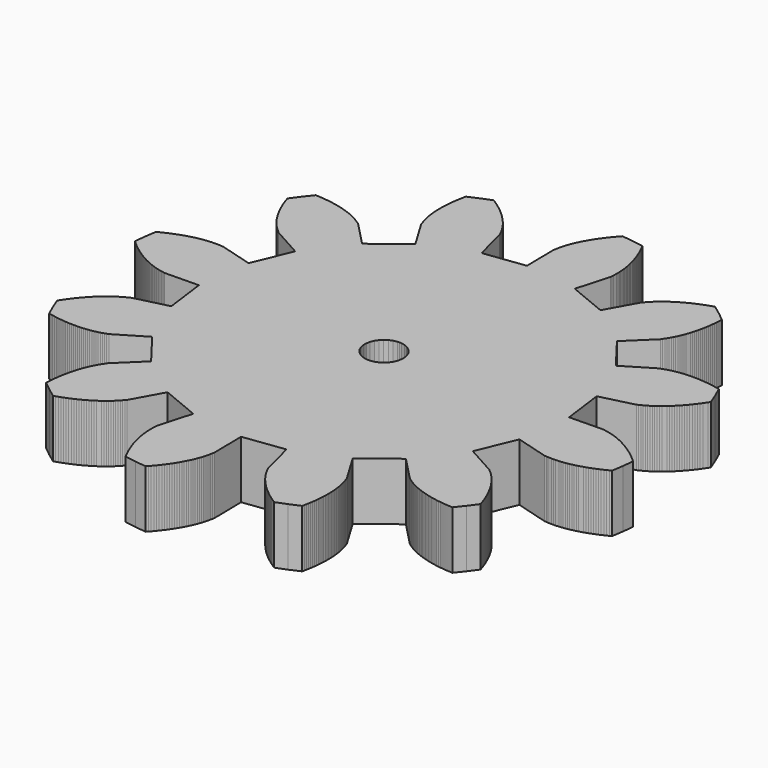
from build123d import *

# Parameters (mm, degrees)
F1_DEPTH = 25


with BuildPart() as f1:
    # F0 (on Top) → F1 (new body)
    with BuildSketch(Plane.XY):
        Polygon((-580.7915, 906), (-581.5505, 906.194), (-596.3495, 905.93), (-598.6955, 923.78), (-584.3365, 927.379), (-583.6495, 927.767), (-582.9615, 928.084), (-582.2555, 928.437), (-581.5675, 928.807), (-580.8975, 929.196), (-580.2275, 929.601), (-579.5565, 930.042), (-578.8865, 930.483), (-578.2335, 930.959), (-577.5815, 931.453), (-576.9285, 931.965), (-576.2935, 932.494), (-575.6585, 933.023), (-575.0415, 933.588), (-574.4235, 934.17), (-573.8065, 934.752), (-573.1895, 935.369), (-572.5895, 935.987), (-572.0075, 936.639), (-571.4075, 937.292), (-570.8255, 937.962), (-570.2615, 938.65), (-569.6965, 939.338), (-569.1325, 940.061), (-568.5675, 940.784), (-568.0385, 941.543), (-567.4915, 942.301), (-566.9625, 943.077), (-566.4335, 943.853), (-565.9215, 944.665), (-567.7215, 949.251), (-569.6965, 953.749), (-570.6315, 953.961), (-571.5485, 954.137), (-572.4655, 954.313), (-573.3835, 954.472), (-574.3005, 954.613), (-575.2005, 954.737), (-576.1175, 954.842), (-576.9995, 954.948), (-577.8985, 955.019), (-578.7805, 955.089), (-579.6625, 955.125), (-580.5265, 955.16), (-581.4085, 955.178), (-582.2555, 955.178), (-583.1195, 955.16), (-583.9665, 955.125), (-584.7955, 955.089), (-585.6245, 955.019), (-586.4535, 954.948), (-587.2655, 954.842), (-588.0765, 954.737), (-588.8705, 954.596), (-589.6635, 954.454), (-590.4405, 954.296), (-591.2165, 954.102), (-591.9745, 953.89), (-592.7155, 953.678), (-593.4565, 953.431), (-594.1795, 953.167), (-594.9205, 952.955), (-607.6205, 945.335), (-618.5745, 959.623), (-607.9375, 969.906), (-607.5325, 970.576), (-607.0915, 971.211), (-606.6675, 971.864), (-606.2625, 972.517), (-605.8745, 973.205), (-605.4855, 973.892), (-605.1335, 974.616), (-604.7805, 975.339), (-604.4455, 976.062), (-604.1275, 976.821), (-603.8275, 977.579), (-603.5285, 978.355), (-603.2635, 979.149), (-602.9985, 979.943), (-602.7515, 980.754), (-602.5055, 981.565), (-602.2935, 982.394), (-602.0815, 983.241), (-601.8875, 984.088), (-601.7115, 984.952), (-601.5345, 985.834), (-601.3765, 986.698), (-601.2355, 987.598), (-601.1115, 988.497), (-601.0055, 989.415), (-600.8995, 990.332), (-600.8115, 991.249), (-600.7415, 992.184), (-600.6885, 993.137), (-600.6355, 994.071), (-604.4805, 997.158), (-608.4495, 1000.069), (-609.3485, 999.786), (-610.2485, 999.487), (-611.1305, 999.169), (-612.0125, 998.852), (-612.8595, 998.516), (-613.7235, 998.164), (-614.5525, 997.811), (-615.3815, 997.44), (-616.1925, 997.07), (-616.9865, 996.682), (-617.7625, 996.276), (-618.5385, 995.871), (-619.2975, 995.447), (-620.0385, 995.024), (-620.7785, 994.583), (-621.5025, 994.124), (-622.1905, 993.666), (-622.8775, 993.207), (-623.5655, 992.713), (-624.2185, 992.237), (-624.8535, 991.725), (-625.4885, 991.214), (-626.0885, 990.702), (-626.6875, 990.156), (-627.2525, 989.609), (-627.8165, 989.062), (-628.3455, 988.497), (-628.8575, 987.915), (-629.3515, 987.333), (-629.8985, 986.769), (-637.0945, 973.822), (-653.7285, 980.701), (-649.6535, 994.936), (-649.6365, 995.729), (-649.5655, 996.488), (-649.5305, 997.264), (-649.4955, 998.04), (-649.4955, 998.834), (-649.5125, 999.628), (-649.5655, 1000.421), (-649.6185, 1001.215), (-649.7065, 1002.027), (-649.7945, 1002.82), (-649.9185, 1003.632), (-650.0595, 1004.461), (-650.2185, 1005.272), (-650.3765, 1006.101), (-650.5705, 1006.93), (-650.7825, 1007.759), (-650.9945, 1008.588), (-651.2415, 1009.417), (-651.5055, 1010.246), (-651.7705, 1011.093), (-652.0525, 1011.922), (-652.3705, 1012.769), (-652.6875, 1013.615), (-653.0225, 1014.444), (-653.3935, 1015.291), (-653.7635, 1016.138), (-654.1515, 1016.984), (-654.5575, 1017.831), (-654.9805, 1018.678), (-655.4045, 1019.524), (-660.2725, 1020.265), (-665.1585, 1020.812), (-665.8105, 1020.106), (-666.4285, 1019.401), (-667.0455, 1018.678), (-667.6455, 1017.972), (-668.2095, 1017.249), (-668.7745, 1016.526), (-669.3215, 1015.802), (-669.8505, 1015.062), (-670.3615, 1014.338), (-670.8735, 1013.598), (-671.3495, 1012.857), (-671.8085, 1012.116), (-672.2665, 1011.375), (-672.6905, 1010.634), (-673.0955, 1009.893), (-673.5015, 1009.135), (-673.8715, 1008.394), (-674.2425, 1007.636), (-674.5775, 1006.895), (-674.9125, 1006.136), (-675.2125, 1005.378), (-675.4945, 1004.619), (-675.7595, 1003.861), (-676.0065, 1003.102), (-676.2355, 1002.344), (-676.4295, 1001.586), (-676.6055, 1000.827), (-676.7645, 1000.069), (-676.9055, 999.31), (-677.0995, 998.552), (-676.8525, 983.753), (-694.7035, 981.407), (-698.2845, 995.765), (-698.6725, 996.453), (-698.9895, 997.141), (-699.3425, 997.846), (-699.7125, 998.534), (-700.1005, 999.204), (-700.5065, 999.875), (-700.9475, 1000.545), (-701.4065, 1001.215), (-701.8645, 1001.868), (-702.3585, 1002.52), (-702.8705, 1003.155), (-703.3995, 1003.808), (-703.9465, 1004.425), (-704.4935, 1005.06), (-705.0755, 1005.678), (-705.6745, 1006.295), (-706.2745, 1006.895), (-706.9095, 1007.512), (-707.5445, 1008.094), (-708.1975, 1008.694), (-708.8675, 1009.276), (-709.5555, 1009.841), (-710.2605, 1010.405), (-710.9665, 1010.969), (-711.7075, 1011.516), (-712.4485, 1012.063), (-713.2065, 1012.61), (-713.9825, 1013.139), (-714.7585, 1013.651), (-715.5705, 1014.18), (-720.1565, 1012.381), (-724.6545, 1010.405), (-724.8655, 1009.47), (-725.0425, 1008.553), (-725.2185, 1007.636), (-725.3775, 1006.718), (-725.5185, 1005.801), (-725.6425, 1004.884), (-725.7475, 1003.984), (-725.8535, 1003.085), (-725.9245, 1002.203), (-725.9945, 1001.321), (-726.0305, 1000.439), (-726.0655, 999.557), (-726.0835, 998.693), (-726.0835, 997.828), (-726.0655, 996.982), (-726.0475, 996.135), (-725.9945, 995.306), (-725.9245, 994.459), (-725.8535, 993.648), (-725.7475, 992.837), (-725.6425, 992.025), (-725.5185, 991.232), (-725.3595, 990.438), (-725.2015, 989.662), (-725.0075, 988.886), (-724.8135, 988.127), (-724.5835, 987.386), (-724.3365, 986.645), (-724.0725, 985.922), (-723.8605, 985.164), (-716.2405, 972.481), (-730.5285, 961.51), (-740.8115, 972.164), (-741.4815, 972.57), (-742.1165, 973.011), (-742.7695, 973.434), (-743.4395, 973.84), (-744.1105, 974.228), (-744.7975, 974.616), (-745.5215, 974.968), (-746.2445, 975.321), (-746.9675, 975.656), (-747.7255, 975.974), (-748.4845, 976.274), (-749.2605, 976.556), (-750.0545, 976.838), (-750.8485, 977.103), (-751.6595, 977.35), (-752.4705, 977.597), (-753.2995, 977.808), (-754.1465, 978.02), (-754.9935, 978.214), (-755.8575, 978.39), (-756.7395, 978.567), (-757.6215, 978.726), (-758.5035, 978.867), (-759.4025, 978.99), (-760.3205, 979.096), (-761.2375, 979.202), (-762.1545, 979.29), (-763.0895, 979.361), (-764.0415, 979.413), (-764.9945, 979.466), (-768.0635, 975.621), (-770.9745, 971.652), (-770.6915, 970.753), (-770.3915, 969.853), (-770.0745, 968.971), (-769.7565, 968.089), (-769.4215, 967.225), (-769.0695, 966.378), (-768.7165, 965.549), (-768.3455, 964.72), (-767.9755, 963.909), (-767.5875, 963.115), (-767.1815, 962.321), (-766.7755, 961.563), (-766.3525, 960.804), (-765.9295, 960.046), (-765.4885, 959.323), (-765.0475, 958.6), (-764.5885, 957.894), (-764.1125, 957.206), (-763.6365, 956.536), (-763.1425, 955.883), (-762.6305, 955.248), (-762.1195, 954.613), (-761.6075, 954.013), (-761.0605, 953.414), (-760.5315, 952.849), (-759.9675, 952.285), (-759.4025, 951.756), (-758.8205, 951.244), (-758.2385, 950.75), (-757.6745, 950.203), (-744.7275, 943.007), (-751.6245, 926.373), (-765.8415, 930.448), (-766.6345, 930.466), (-767.3935, 930.536), (-768.1695, 930.571), (-768.9455, 930.607), (-769.7395, 930.607), (-770.5335, 930.571), (-771.3265, 930.536), (-772.1205, 930.483), (-772.9315, 930.395), (-773.7435, 930.289), (-774.5545, 930.183), (-775.3665, 930.042), (-776.1775, 929.883), (-777.0065, 929.725), (-777.8355, 929.531), (-778.6645, 929.319), (-779.4935, 929.107), (-780.3225, 928.86), (-781.1515, 928.596), (-781.9985, 928.331), (-782.8275, 928.031), (-783.6745, 927.732), (-784.5205, 927.414), (-785.3675, 927.061), (-786.1965, 926.708), (-787.0435, 926.338), (-787.8895, 925.95), (-788.7365, 925.544), (-789.5835, 925.121), (-790.4295, 924.68), (-791.1705, 919.829), (-791.7175, 914.926), (-791.0115, 914.291), (-790.3065, 913.673), (-789.5835, 913.056), (-788.8775, 912.456), (-788.1545, 911.892), (-787.4315, 911.327), (-786.7075, 910.781), (-785.9845, 910.251), (-785.2435, 909.722), (-784.5035, 909.228), (-783.7795, 908.752), (-783.0395, 908.293), (-782.2985, 907.835), (-781.5395, 907.412), (-780.7985, 906.988), (-780.0585, 906.6), (-779.2995, 906.23), (-778.5415, 905.859), (-777.8005, 905.524), (-777.0415, 905.189), (-776.2835, 904.889), (-775.5245, 904.607), (-774.7665, 904.342), (-774.0075, 904.095), (-773.2495, 903.866), (-772.4905, 903.672), (-771.7325, 903.478), (-770.9745, 903.337), (-770.2155, 903.196), (-769.4575, 903.002), (-754.6585, 903.249), (-752.3125, 885.398), (-766.6705, 881.817), (-767.3585, 881.429), (-768.0635, 881.112), (-768.7515, 880.759), (-769.4395, 880.389), (-770.1095, 880.001), (-770.7805, 879.577), (-771.4505, 879.154), (-772.1205, 878.695), (-772.7735, 878.219), (-773.4255, 877.743), (-774.0785, 877.231), (-774.7135, 876.702), (-775.3485, 876.155), (-775.9655, 875.609), (-776.5835, 875.027), (-777.2005, 874.427), (-777.8175, 873.827), (-778.4175, 873.192), (-778.9995, 872.557), (-779.5995, 871.904), (-780.1815, 871.234), (-780.7455, 870.546), (-781.3105, 869.841), (-781.8745, 869.135), (-782.4395, 868.394), (-782.9685, 867.653), (-783.5155, 866.895), (-784.0445, 866.119), (-784.5735, 865.325), (-785.0855, 864.531), (-783.2855, 859.945), (-781.3105, 855.447), (-780.3935, 855.236), (-779.4585, 855.059), (-778.5415, 854.883), (-777.6235, 854.724), (-776.7065, 854.583), (-775.8075, 854.46), (-774.8895, 854.354), (-774.0075, 854.248), (-773.1085, 854.177), (-772.2265, 854.107), (-771.3445, 854.054), (-770.4805, 854.036), (-769.5985, 854.019), (-768.7515, 854.019), (-767.8875, 854.036), (-767.0405, 854.054), (-766.2115, 854.107), (-765.3825, 854.177), (-764.5535, 854.248), (-763.7425, 854.354), (-762.9305, 854.46), (-762.1365, 854.583), (-761.3435, 854.742), (-760.5675, 854.901), (-759.7905, 855.095), (-759.0325, 855.289), (-758.2915, 855.518), (-757.5505, 855.765), (-756.8275, 856.029), (-756.0865, 856.241), (-743.3865, 863.861), (-732.4335, 849.574), (-743.0695, 839.29), (-743.4755, 838.602), (-743.9155, 837.985), (-744.3395, 837.332), (-744.7455, 836.662), (-745.1335, 835.992), (-745.5215, 835.286), (-745.8735, 834.581), (-746.2265, 833.857), (-746.5615, 833.117), (-746.8795, 832.376), (-747.1795, 831.617), (-747.4795, 830.841), (-747.7435, 830.047), (-748.0085, 829.254), (-748.2555, 828.442), (-748.5025, 827.631), (-748.7135, 826.784), (-748.9255, 825.955), (-749.1195, 825.091), (-749.2955, 824.244), (-749.4725, 823.362), (-749.6305, 822.48), (-749.7725, 821.598), (-749.8955, 820.699), (-750.0015, 819.782), (-750.1075, 818.864), (-750.1955, 817.947), (-750.2655, 817.012), (-750.3185, 816.06), (-750.3715, 815.107), (-746.5265, 812.038), (-742.5575, 809.128), (-741.6585, 809.41), (-740.7585, 809.71), (-739.8765, 810.027), (-738.9945, 810.345), (-738.1485, 810.68), (-737.3015, 811.033), (-736.4545, 811.385), (-735.6255, 811.756), (-734.8145, 812.126), (-734.0205, 812.514), (-733.2445, 812.902), (-732.4685, 813.326), (-731.7095, 813.731), (-730.9695, 814.172), (-730.2285, 814.613), (-729.5055, 815.054), (-728.8175, 815.513), (-728.1295, 815.989), (-727.4415, 816.465), (-726.7885, 816.959), (-726.1535, 817.471), (-725.5185, 817.982), (-724.9185, 818.494), (-724.3195, 819.023), (-723.7545, 819.57), (-723.1905, 820.134), (-722.6615, 820.699), (-722.1495, 821.281), (-721.6555, 821.863), (-721.1085, 822.427), (-713.9295, 835.374), (-697.2785, 828.477), (-701.3535, 814.243), (-701.3705, 813.467), (-701.4415, 812.691), (-701.4765, 811.932), (-701.5125, 811.138), (-701.5125, 810.362), (-701.4945, 809.569), (-701.4415, 808.775), (-701.3885, 807.981), (-701.3005, 807.17), (-701.2125, 806.358), (-701.0885, 805.547), (-700.9475, 804.736), (-700.7885, 803.924), (-700.6305, 803.095), (-700.4365, 802.266), (-700.2245, 801.437), (-700.0125, 800.608), (-699.7655, 799.779), (-699.5185, 798.932), (-699.2365, 798.103), (-698.9545, 797.257), (-698.6365, 796.428), (-698.3195, 795.581), (-697.9845, 794.734), (-697.6135, 793.888), (-697.2435, 793.059), (-696.8555, 792.212), (-696.4495, 791.365), (-696.0265, 790.519), (-695.6035, 789.672), (-690.7345, 788.931), (-685.8485, 788.384), (-685.1965, 789.09), (-684.5785, 789.795), (-683.9615, 790.501), (-683.3615, 791.224), (-682.7975, 791.947), (-682.2325, 792.671), (-681.6855, 793.394), (-681.1565, 794.117), (-680.6455, 794.858), (-680.1335, 795.581), (-679.6575, 796.322), (-679.1985, 797.063), (-678.7405, 797.803), (-678.3165, 798.562), (-677.9115, 799.303), (-677.5055, 800.044), (-677.1355, 800.802), (-676.7645, 801.543), (-676.4295, 802.301), (-676.0945, 803.06), (-675.7945, 803.818), (-675.5125, 804.577), (-675.2475, 805.335), (-675.0005, 806.076), (-674.7715, 806.835), (-674.5775, 807.593), (-674.4015, 808.352), (-674.2425, 809.11), (-674.1015, 809.868), (-673.9075, 810.645), (-674.1545, 825.444), (-656.3035, 827.79), (-652.7225, 813.432), (-652.3345, 812.744), (-652.0175, 812.038), (-651.6645, 811.35), (-651.2945, 810.662), (-650.9065, 809.992), (-650.5005, 809.304), (-650.0595, 808.651), (-649.6005, 807.981), (-649.1425, 807.328), (-648.6485, 806.676), (-648.1365, 806.023), (-647.6075, 805.388), (-647.0605, 804.753), (-646.5145, 804.136), (-645.9315, 803.518), (-645.3325, 802.901), (-644.7325, 802.284), (-644.1155, 801.684), (-643.4625, 801.084), (-642.8095, 800.502), (-642.1395, 799.92), (-641.4515, 799.356), (-640.7465, 798.774), (-640.0405, 798.227), (-639.2995, 797.662), (-638.5585, 797.116), (-637.8005, 796.586), (-637.0245, 796.057), (-636.2485, 795.528), (-635.4365, 795.017), (-630.8505, 796.798), (-626.3525, 798.791), (-626.1415, 799.708), (-625.9645, 800.643), (-625.7885, 801.561), (-625.6295, 802.478), (-625.4885, 803.395), (-625.3655, 804.295), (-625.2595, 805.194), (-625.1535, 806.094), (-625.0825, 806.993), (-625.0125, 807.875), (-624.9765, 808.757), (-624.9415, 809.622), (-624.9245, 810.486), (-624.9245, 811.35), (-624.9415, 812.214), (-624.9595, 813.061), (-625.0125, 813.89), (-625.0825, 814.719), (-625.1535, 815.548), (-625.2595, 816.36), (-625.3655, 817.171), (-625.5065, 817.965), (-625.6475, 818.758), (-625.8055, 819.535), (-626.0005, 820.311), (-626.1945, 821.069), (-626.4235, 821.81), (-626.6705, 822.551), (-626.9345, 823.274), (-627.1465, 824.015), (-634.7665, 836.715), (-620.4795, 847.669), (-610.1955, 837.032), (-609.5255, 836.627), (-608.8905, 836.186), (-608.2375, 835.762), (-607.5675, 835.357), (-606.8975, 834.951), (-606.2095, 834.581), (-605.4855, 834.228), (-604.7625, 833.875), (-604.0395, 833.54), (-603.2815, 833.222), (-602.5225, 832.922), (-601.7465, 832.623), (-600.9525, 832.358), (-600.1595, 832.093), (-599.3475, 831.847), (-598.5365, 831.6), (-597.7075, 831.388), (-596.8605, 831.176), (-596.0135, 830.982), (-595.1495, 830.788), (-594.2675, 830.629), (-593.3855, 830.471), (-592.5035, 830.33), (-591.6045, 830.206), (-590.6865, 830.1), (-589.7695, 829.994), (-588.8525, 829.906), (-587.9175, 829.836), (-586.9655, 829.783), (-586.0125, 829.73), (-582.9435, 833.575), (-580.0335, 837.544), (-580.3155, 838.443), (-580.6155, 839.343), (-580.9325, 840.225), (-581.2505, 841.089), (-581.5855, 841.954), (-581.9385, 842.8), (-582.2905, 843.647), (-582.6615, 844.458), (-583.0315, 845.27), (-583.4195, 846.081), (-583.8255, 846.857), (-584.2315, 847.633), (-584.6545, 848.392), (-585.0775, 849.133), (-585.5185, 849.873), (-585.9595, 850.579), (-586.4355, 851.285), (-586.8945, 851.972), (-587.3705, 852.643), (-587.8645, 853.313), (-588.3765, 853.948), (-588.8875, 854.583), (-589.3995, 855.183), (-589.9465, 855.782), (-590.4755, 856.347), (-591.0395, 856.911), (-591.6045, 857.441), (-592.1865, 857.952), (-592.7685, 858.446), (-593.3325, 858.993), (-606.2795, 866.172), (-599.3825, 882.805), (-585.1655, 878.731), (-584.3725, 878.731), (-583.6135, 878.66), (-582.8375, 878.625), (-582.0615, 878.59), (-581.2675, 878.59), (-580.4745, 878.607), (-579.6805, 878.66), (-578.8865, 878.713), (-578.0755, 878.801), (-577.2635, 878.889), (-576.4525, 879.013), (-575.6405, 879.154), (-574.8295, 879.295), (-574.0005, 879.472), (-573.1715, 879.666), (-572.3425, 879.877), (-571.5135, 880.089), (-570.6845, 880.336), (-569.8555, 880.583), (-569.0085, 880.865), (-568.1795, 881.147), (-567.3335, 881.465), (-566.4865, 881.782), (-565.6395, 882.117), (-564.8105, 882.47), (-563.9645, 882.858), (-563.1175, 883.246), (-562.2705, 883.652), (-561.4245, 884.058), (-560.5775, 884.499), (-559.8365, 889.367), (-559.2895, 894.253), (-559.9955, 894.906), (-560.7005, 895.523), (-561.4245, 896.14), (-562.1295, 896.722), (-562.8525, 897.304), (-563.5755, 897.869), (-564.2995, 898.416), (-565.0225, 898.945), (-565.7635, 899.456), (-566.5045, 899.95), (-567.2275, 900.444), (-567.9685, 900.903), (-568.7265, 901.344), (-569.4675, 901.785), (-570.2085, 902.19), (-570.9665, 902.596), (-571.7075, 902.967), (-572.4655, 903.337), (-573.2065, 903.672), (-573.9655, 903.99), (-574.7235, 904.307), (-575.4825, 904.589), (-576.2405, 904.854), (-576.9995, 905.101), (-577.7575, 905.33), (-578.5165, 905.524), (-579.2745, 905.701), (-580.0335, 905.859), align=None)
        Polygon((-667.2045, 905.454), (-667.1695, 904.589), (-667.2045, 903.743), (-667.5395, 902.12), (-668.1565, 900.621), (-669.0565, 899.28), (-670.2035, 898.151), (-671.5255, 897.252), (-673.0255, 896.617), (-674.6485, 896.299), (-675.5125, 896.264), (-676.3595, 896.299), (-677.9815, 896.617), (-679.4815, 897.252), (-680.8215, 898.151), (-681.9505, 899.28), (-682.8505, 900.621), (-683.4675, 902.12), (-683.8025, 903.743), (-683.8375, 904.589), (-683.8025, 905.454), (-683.4675, 907.076), (-682.8505, 908.576), (-681.9505, 909.899), (-680.8215, 911.027), (-679.4815, 911.927), (-677.9815, 912.562), (-676.3595, 912.897), (-675.5125, 912.932), (-674.6485, 912.897), (-673.0255, 912.562), (-671.5255, 911.927), (-670.2035, 911.027), (-669.0565, 909.899), (-668.1565, 908.576), (-667.5395, 907.076), align=None, mode=Mode.SUBTRACT)
    extrude(amount=F1_DEPTH)


solid = f1.part
